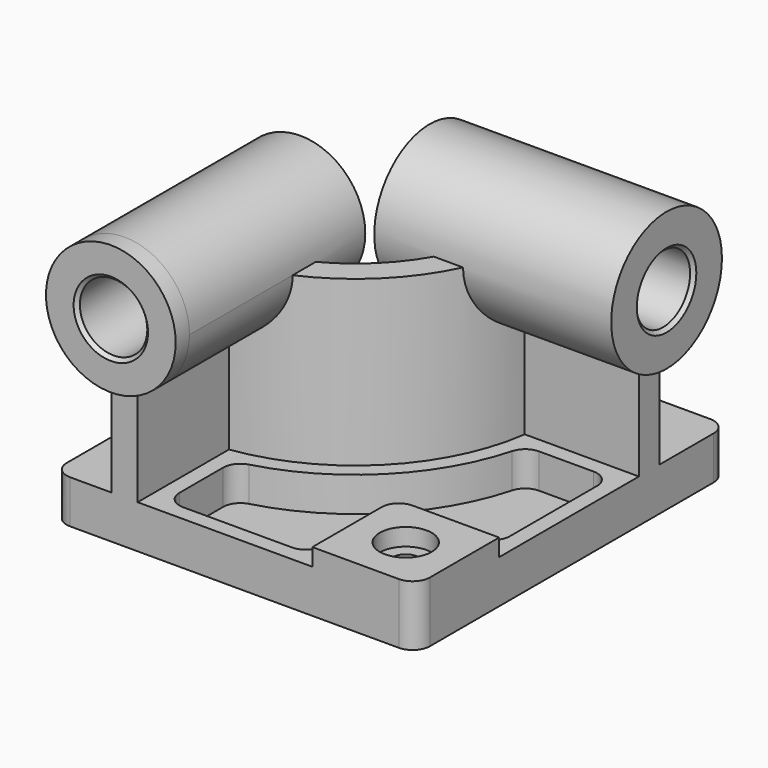
from build123d import *

# Parameters (mm, degrees)
F0_W            = 5334
F0_H            = 5715
F1_DEPTH        = 635
F3_DEPTH        = 2413
F4_R            = 952.5
F5_DEPTH        = 254
F5_DEPTH_BACK   = 3225.8
F6_R            = 1016
F7_DEPTH        = 254
F7_DEPTH_BACK   = 3225.8
F8_W            = 1524
F8_H            = 1524
F9_DEPTH        = 254
F10_R           = 254
F12_DEPTH       = 508
F14_D           = 381
F14_CBORE_D     = 762
F14_CBORE_DEPTH = 254
F15_R           = 254
F16_R           = 495.3
F17_DEPTH       = 5969.001
F18_R           = 495.3
F19_DEPTH       = 5588.001
F20_SIZE        = 50.8
F21_R           = 254


with BuildPart() as f1:
    # F0 (on Top) → F1 (new body)
    with BuildSketch(Plane.XY):
        Rectangle(F0_W, F0_H)
    extrude(amount=F1_DEPTH)

    # F2 (on face) → F3 (join)
    with BuildSketch(Plane.XY.offset(635)):
        with BuildLine():
            Line((-1803.4, -825.5), (-1803.4, -2857.5))
            Line((-1803.4, -2857.5), (-1422.4, -2857.5))
            Line((-1422.4, -2857.5), (-1422.4, -1180.638144))
            ThreePointArc((-1422.4, -1180.638144), (190.216859, -380.716859), (990.138144, 1231.9))
            Line((990.138144, 1231.9), (2667, 1231.9))
            Line((2667, 1231.9), (2667, 1612.9))
            Line((2667, 1612.9), (635, 1612.9))
            ThreePointArc((635, 1612.9), (-79.190825, -111.309175), (-1803.4, -825.5))
        make_face()
    extrude(amount=F3_DEPTH)

    # F4 (on face) → F5 (join, two sides)
    with BuildSketch(Plane.XZ.offset(2857.5)) as f5_sk:
        with Locations((-1612.9, 3048)):
            Circle(F4_R)
    extrude(amount=F5_DEPTH)
    extrude(f5_sk.sketch, amount=-F5_DEPTH_BACK)

    # F6 (on face) → F7 (join, two sides)
    with BuildSketch(Plane.YZ.offset(2667)) as f7_sk:
        with Locations((1422.4, 3048)):
            Circle(F6_R)
    extrude(amount=F7_DEPTH)
    extrude(f7_sk.sketch, amount=-F7_DEPTH_BACK)

    # F8 (on face) → F9 (join)
    with BuildSketch(Plane.XY.offset(635)):
        with Locations((1905, -2095.5)):
            Rectangle(F8_W, F8_H)
    extrude(amount=F9_DEPTH)

    # F10
    f10_edges = [f1.edges().sort_by_distance(p)[0] for p in [
        (1143, -1333.5, 762),
    ]]
    fillet(f10_edges, radius=F10_R)

    # F11 (on face) → F12 (cut)
    with BuildSketch(Plane.XY.offset(635)):
        with BuildLine():
            ThreePointArc((1183.017894, 1003.3), (351.861469, -542.361469), (-1193.8, -1373.517894))
            Line((-1193.8, -1373.517894), (-1193.8, -2628.9))
            Line((-1193.8, -2628.9), (914.4, -2628.9))
            Line((914.4, -2628.9), (914.4, -1587.5))
            ThreePointArc((914.4, -1587.5), (1055.750267, -1246.250267), (1397, -1104.9))
            Line((1397, -1104.9), (2438.4, -1104.9))
            Line((2438.4, -1104.9), (2438.4, 1003.3))
            Line((2438.4, 1003.3), (1183.017894, 1003.3))
        make_face()
    extrude(amount=-F12_DEPTH, mode=Mode.SUBTRACT)

    # F14 (through all)
    with Locations(Plane.XY.offset(889)):
        with Locations((1905, -2095.5)):
            CounterBoreHole(F14_D / 2, F14_CBORE_D / 2, F14_CBORE_DEPTH)

    # F15
    f15_edges = [f1.edges().sort_by_distance(p)[0] for p in [
        (-1193.8, -1373.517894, 381),
        (1183.017894, 1003.3, 381),
        (2438.4, 1003.3, 381),
        (2438.4, -1104.9, 381),
        (914.4, -2628.9, 381),
        (-1193.8, -2628.9, 381),
    ]]
    fillet(f15_edges, radius=F15_R)

    # F16 (on face) → F17 (cut, through all)
    with BuildSketch(Plane.XZ.offset(3111.5)):
        with Locations((-1612.9, 3048)):
            Circle(F16_R)
    extrude(amount=-F17_DEPTH, mode=Mode.SUBTRACT)

    # F18 (on face) → F19 (cut, through all)
    with BuildSketch(Plane.YZ.offset(2921)):
        with Locations((1422.4, 3048)):
            Circle(F18_R)
    extrude(amount=-F19_DEPTH, mode=Mode.SUBTRACT)

    # F20
    f20_edges = [f1.edges().sort_by_distance(p)[0] for p in [
        (-2108.2, -3111.5, 3048),
        (2921, 927.1, 3048),
        (-2108.2, 368.3, 3048),
        (-558.8, 927.1, 3048),
    ]]
    chamfer(f20_edges, length=F20_SIZE)

    # F21
    f21_edges = [f1.edges().sort_by_distance(p)[0] for p in [
        (2667, -2857.5, 444.5),
        (-2667, -2857.5, 317.5),
        (2667, 2857.5, 317.5),
        (-2667, 2857.5, 317.5),
    ]]
    fillet(f21_edges, radius=F21_R)


solid = f1.part
